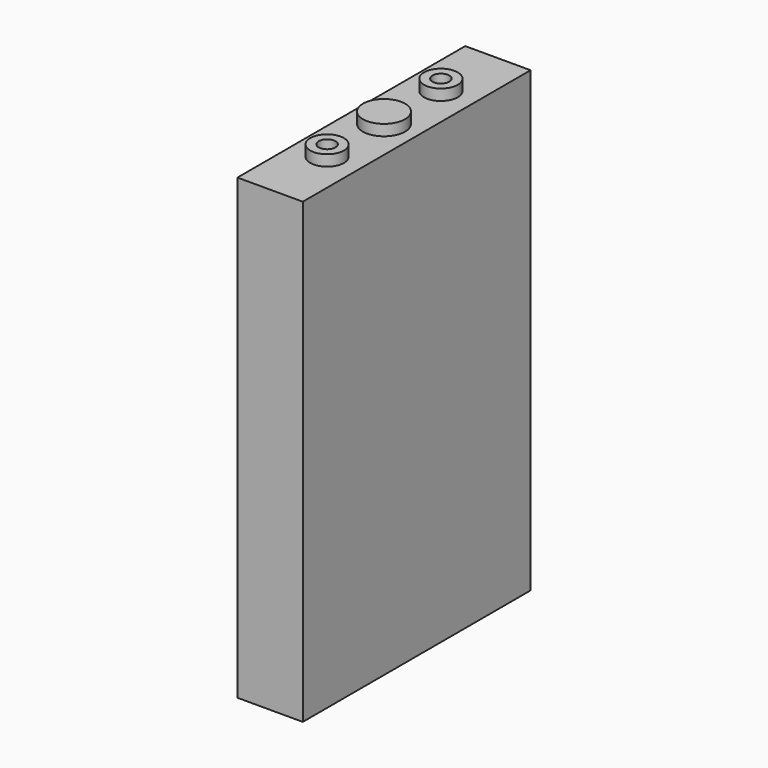
from build123d import *

# Parameters (mm, degrees)
SKETCH_W      = 31
SKETCH_H      = 135.1
PAD_DEPTH     = 217.3
SKETCH001_R   = 8
SKETCH001_R_2 = 10
PAD001_DEPTH  = 5.2
SKETCH002_R   = 4
POCKET_DEPTH  = 5


with BuildPart() as part:
    # Sketch → Pad (new body)
    with BuildSketch(Plane.XY):
        with Locations((15.5, 67.55)):
            Rectangle(SKETCH_W, SKETCH_H)
    extrude(amount=PAD_DEPTH)

    # Sketch001 (on Face6 of Pad) → Pad001 (join)
    with BuildSketch(Plane.XY.offset(217.3)):
        with Locations((15.5, 33.8)):
            Circle(SKETCH001_R)
        with Locations((15.5, 67.55)):
            Circle(SKETCH001_R_2)
        with Locations((15.5, 101.3)):
            Circle(SKETCH001_R)
    extrude(amount=PAD001_DEPTH)

    # Sketch002 (on Face11 of Pad001) → Pocket (cut)
    with BuildSketch(Plane.XY.offset(222.5)):
        with Locations((15.5, 101.3)):
            Circle(SKETCH002_R)
        with Locations((15.5, 33.8)):
            Circle(SKETCH002_R)
    extrude(amount=-POCKET_DEPTH, mode=Mode.SUBTRACT)


solid = part.part
